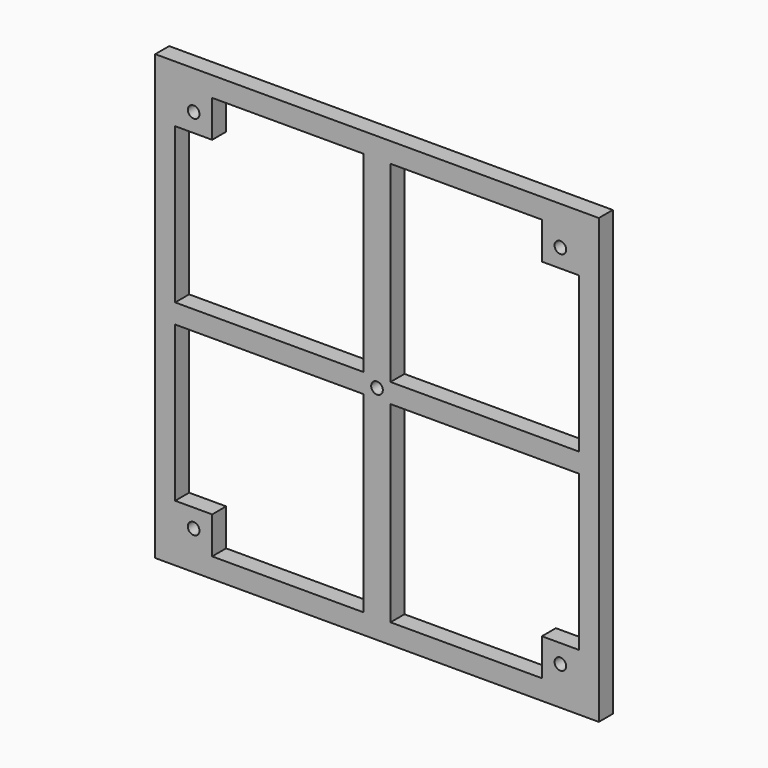
from build123d import *

# Parameters (mm, degrees)
F0_W     = 76.2
F0_H     = 76.2
F0_W_2   = 6.35
F0_H_2   = 6.35
F1_DEPTH = 3
F2_D     = 2


with BuildPart() as f1:
    # F0 (on Front) → F1 (new body)
    with BuildSketch(Plane.XZ):
        Rectangle(F0_W, F0_H)
        Polygon((-34.671, -34.671), (-34.671, -28.321), (-34.671, -1.671), (-28.321, -1.671), (-2.321, -1.671), (-2.321, -34.671), (-28.321, -34.671), align=None, mode=Mode.SUBTRACT)
        Polygon((34.671, -1.671), (34.671, -28.321), (34.671, -34.671), (28.321, -34.671), (2.321, -34.671), (2.321, -1.671), (28.321, -1.671), align=None, mode=Mode.SUBTRACT)
        Polygon((-34.671, 34.671), (-28.321, 34.671), (-2.321, 34.671), (-2.321, 1.671), (-28.321, 1.671), (-34.671, 1.671), (-34.671, 28.321), align=None, mode=Mode.SUBTRACT)
        Polygon((28.321, 34.671), (34.671, 34.671), (34.671, 28.321), (34.671, 1.671), (28.321, 1.671), (2.321, 1.671), (2.321, 34.671), align=None, mode=Mode.SUBTRACT)
        with Locations((-31.496, 31.496)):
            Rectangle(F0_W_2, F0_H_2)
        with Locations((31.496, 31.496)):
            Rectangle(F0_W_2, F0_H_2)
        with Locations((-31.496, -31.496)):
            Rectangle(F0_W_2, F0_H_2)
        with Locations((31.496, -31.496)):
            Rectangle(F0_W_2, F0_H_2)
    extrude(amount=F1_DEPTH)

    # F2 (through all)
    with Locations(Plane(origin=(0, 0, 0), x_dir=(1, 0, 0), z_dir=(0, 1, 0))):
        with Locations((-31.496, 31.496), (31.496, 31.496), (0, 0), (-31.496, -31.496), (31.496, -31.496)):
            Hole(F2_D / 2)


solid = f1.part
